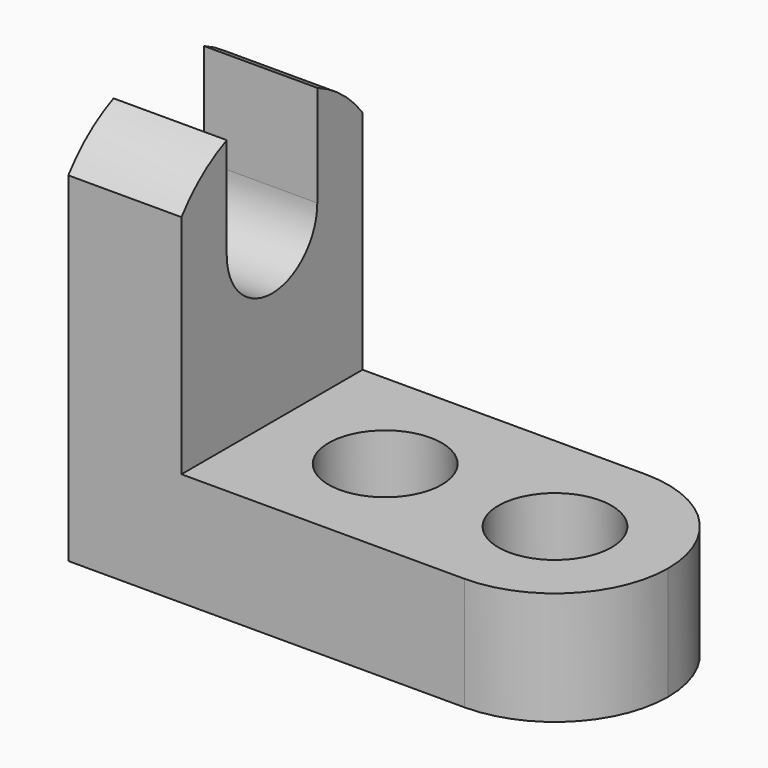
from build123d import *

# Parameters (mm, degrees)
F1_DEPTH  = 25.4
F2_R      = 6.35
F3_DEPTH  = 12.7
F6_DEPTH  = 12.7
F8_DEPTH  = 12.7
F10_DEPTH = 25.4


with BuildPart() as f1:
    # F0 (on Front) → F1 (new body)
    with BuildSketch(Plane.XZ):
        Polygon((0, 44.45), (0, 0), (57.15, 0), (57.15, 12.7), (12.7, 12.7), (12.7, 44.45), align=None)
    extrude(amount=F1_DEPTH)

    # F2 (on face) → F3 (cut)
    with BuildSketch(Plane.XY.offset(12.7)):
        with Locations((25.4, -12.7)):
            Circle(F2_R)
        with Locations((44.45, -12.7)):
            Circle(F2_R)
    extrude(amount=-F3_DEPTH, mode=Mode.SUBTRACT)

    # F5 (on face) → F6 (cut)
    with BuildSketch(Plane.XY.offset(12.7)):
        with BuildLine():
            ThreePointArc((44.45, 0), (53.4302561211, -3.7197438789), (57.15, -12.7))
            Line((57.15, -12.7), (57.15, 0))
            Line((57.15, 0), (44.45, 0))
        make_face()
        with BuildLine():
            ThreePointArc((57.15, -12.7), (53.4302561211, -21.6802561211), (44.45, -25.4))
            Line((44.45, -25.4), (57.15, -25.4))
            Line((57.15, -25.4), (57.15, -12.7))
        make_face()
    extrude(amount=-F6_DEPTH, mode=Mode.SUBTRACT)

    # F7 (on face) → F8 (cut)
    with BuildSketch(Plane.YZ.offset(12.7)):
        with BuildLine():
            ThreePointArc((-6.35, 31.75), (-12.7, 38.1), (-19.05, 31.75))
            ThreePointArc((-19.05, 31.75), (-12.7, 25.4), (-6.35, 31.75))
        make_face()
        with BuildLine():
            Line((-6.35, 44.45), (-19.05, 44.45))
            Line((-19.05, 44.45), (-19.05, 31.75))
            ThreePointArc((-19.05, 31.75), (-12.7, 38.1), (-6.35, 31.75))
            Line((-6.35, 31.75), (-6.35, 44.45))
        make_face()
    extrude(amount=-F8_DEPTH, mode=Mode.SUBTRACT)

    # F9 (on face) → F10 (cut)
    with BuildSketch(Plane.YZ.offset(12.7)):
        with BuildLine():
            Line((-25.4, 44.45), (-25.4, 38.1))
            ThreePointArc((-25.4, 38.1), (-19.7995158286, 42.7740316571), (-12.7, 44.45))
            Line((-12.7, 44.45), (-25.4, 44.45))
        make_face()
        with BuildLine():
            Line((0, 44.45), (-12.7, 44.45))
            ThreePointArc((-12.7, 44.45), (-5.6004841714, 42.7740316571), (0, 38.1))
            Line((0, 38.1), (0, 44.45))
        make_face()
    extrude(amount=-F10_DEPTH, mode=Mode.SUBTRACT)


solid = f1.part
